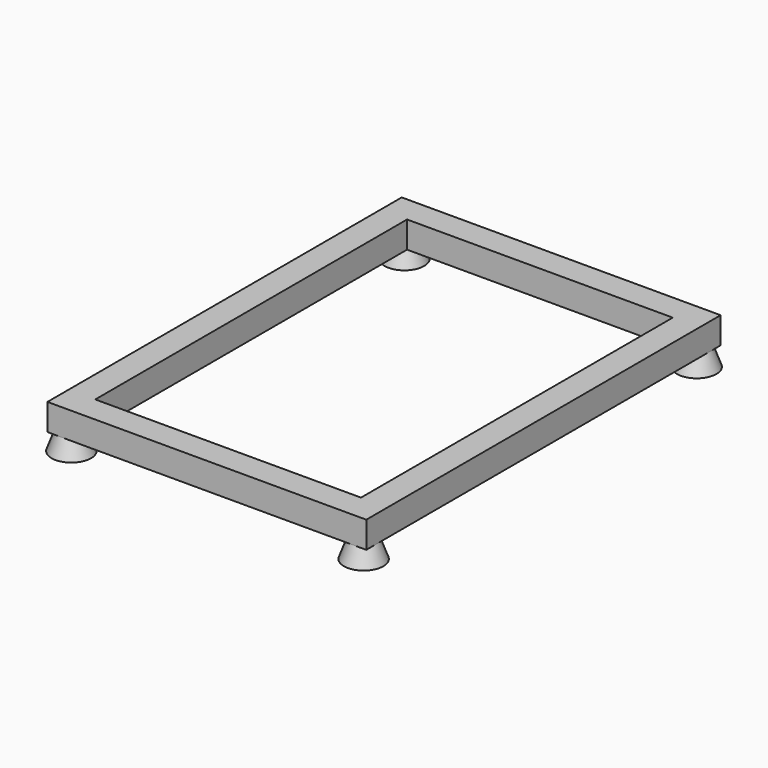
from build123d import *

# Parameters (mm, degrees)
F0_W     = 360
F0_H     = 500
F0_W_2   = 300
F0_H_2   = 440
F1_DEPTH = 30
F2_R     = 15
F3_DEPTH = 20
F3_TAPER = -20


with BuildPart() as f1:
    # F0 (on Top) → F1 (new body)
    with BuildSketch(Plane.XY):
        Rectangle(F0_W, F0_H)
        Rectangle(F0_W_2, F0_H_2, mode=Mode.SUBTRACT)
    extrude(amount=F1_DEPTH)

    # F2 (on face) → F3 (join)
    with BuildSketch(Plane(origin=(0, 0, 0), x_dir=(1, 0, 0), z_dir=(0, 0, -1))):
        with Locations((-165, 235)):
            Circle(F2_R)
        with Locations((-165, -235)):
            Circle(F2_R)
        with Locations((165, 235)):
            Circle(F2_R)
        with Locations((165, -235)):
            Circle(F2_R)
    extrude(amount=F3_DEPTH, taper=F3_TAPER)


solid = f1.part
